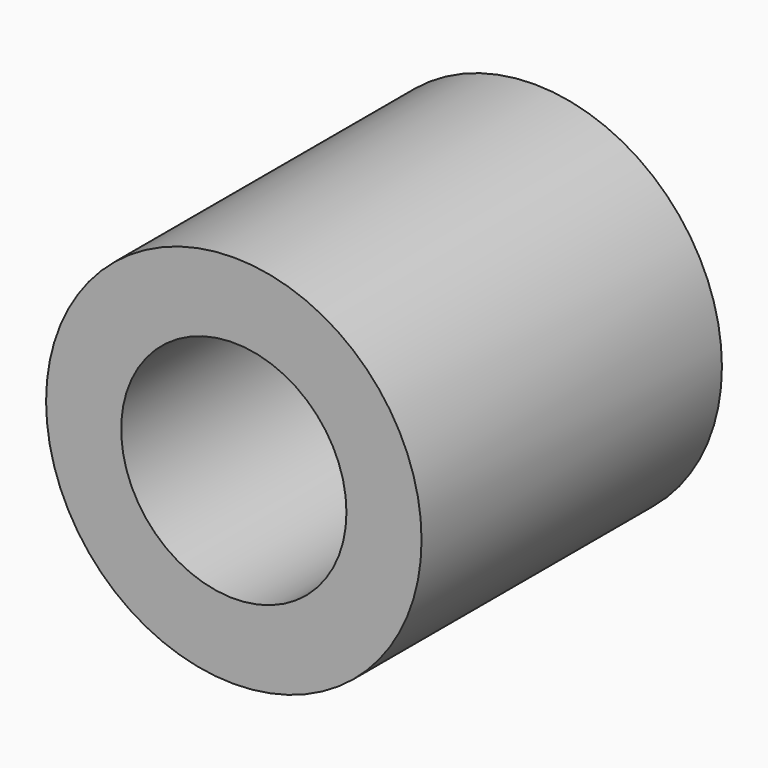
from build123d import *

# Parameters (mm, degrees)
F0_R     = 63.5
F0_R_2   = 50.8
F0_R_3   = 38.1
F1_DEPTH = 127
F2_W     = 50.8
F2_H     = 50.8
F3_DEPTH = 25.4


with BuildPart() as f1:
    # F0 (on Front) → F1 (new body)
    with BuildSketch(Plane.XZ):
        Circle(F0_R)
        Circle(F0_R_2, mode=Mode.SUBTRACT)
        Circle(F0_R_2)
        Circle(F0_R_3, mode=Mode.SUBTRACT)
    extrude(amount=F1_DEPTH)


with BuildPart() as f3:
    # F2 (on Front) → F3 (new body)
    with BuildSketch(Plane.XZ):
        Rectangle(F2_W, F2_H)
    extrude(amount=F3_DEPTH)


solid = Compound([f1.part, f3.part])
